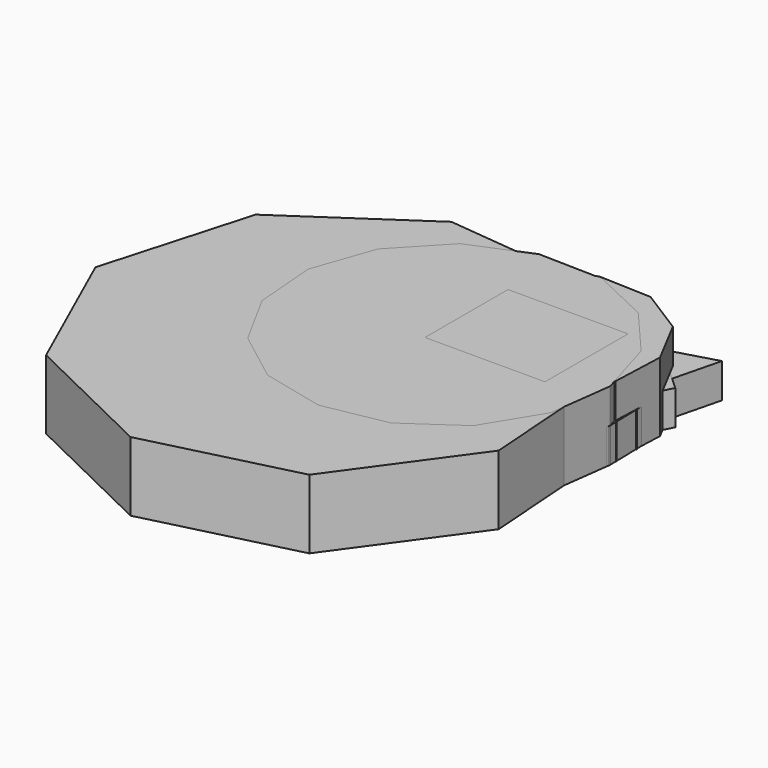
from build123d import *

# Parameters (mm, degrees)
PAD_DEPTH    = 10
PAD001_DEPTH = 10
PAD002_DEPTH = 10
PAD003_DEPTH = 5
PAD004_DEPTH = 5
PAD005_DEPTH = 5
SKETCH006_W  = 17.330512
SKETCH006_H  = 14.988543
PAD006_DEPTH = 10
PAD007_DEPTH = 5
PAD008_DEPTH = 5


with BuildPart() as body:
    # Sketch → Pad (new body)
    with BuildSketch(Plane.XY):
        Polygon((18.167238, -26.824047), (31.159077, -8.870737), (29.571237, 13.23329), (14.146687, 29.145313), (-7.897255, 31.41992), (-26.245984, 18.992798), (-32.313925, -2.321266), (-23.261822, -22.549184), (-3.325253, -32.226088), align=None)
    extrude(amount=PAD_DEPTH)


with BuildPart() as body_1:
    # Body placement: moved
    add(body.part.moved(Location((-31.159077, -31.41992, 0))))


with BuildPart() as body001:
    # Sketch001 → Pad001 (new body)
    with BuildSketch(Plane.XY):
        Polygon((-14.146512, 4.385867), (-14.444172, -3.274984), (-10.871528, -10.058305), (-4.385867, -14.146512), (3.274984, -14.444172), (10.058305, -10.871528), (14.146512, -4.385867), (14.444172, 3.274984), (10.871528, 10.058305), (4.385867, 14.146512), (-3.274984, 14.444172), (-10.058305, 10.871528), align=None)
    extrude(amount=PAD001_DEPTH)


with BuildPart() as body001_1:
    # Body001 placement: moved
    add(body001.part.moved(Location((-14.444172, -14.444172, 0))))


with BuildPart() as body002:
    # Sketch002 → Pad002 (new body)
    with BuildSketch(Plane.XY):
        Polygon((5.168737, 19.66088), (-4.125931, 19.882535), (-12.707188, 16.304545), (-19.091257, 9.545577), (-22.174274, 0.774318), (-21.423157, -8.492602), (-16.967783, -16.652849), (-9.578524, -22.29544), (-0.533051, -24.444722), (8.60459, -22.729063), (16.25442, -17.445117), (21.093714, -9.506527), (22.285712, -0.285945), (19.624308, 8.622305), (13.569683, 15.677905), align=None)
    extrude(amount=PAD002_DEPTH)


with BuildPart() as body002_1:
    # Body002 placement: moved
    add(body002.part.moved(Location((-22.285712, -19.882535, 0))))


with BuildPart() as body003:
    # Sketch003 → Pad003 (new body)
    with BuildSketch(Plane.XY):
        Polygon((7.399518, 7.664609), (-10.337505, 2.575866), (2.937987, -10.240475), align=None)
    extrude(amount=PAD003_DEPTH)


with BuildPart() as body003_1:
    # Body003 placement: moved
    add(body003.part.moved(Location((-7.399518, -7.664609, 0))))


with BuildPart() as body004:
    # Sketch004 → Pad004 (new body)
    with BuildSketch(Plane.XY):
        Polygon((0, 10.25955), (-8.885031, -5.129775), (8.885031, -5.129775), align=None)
    extrude(amount=PAD004_DEPTH)


with BuildPart() as body004_1:
    # Body004 placement: moved
    add(body004.part.moved(Location((-8.885031, -10.25955, 0))))


with BuildPart() as body005:
    # Sketch005 → Pad005 (new body)
    with BuildSketch(Plane.XY):
        Polygon((8.917991, 0), (13.337694, 8.722222), (4.077364, 17.140703), (-8.024202, 17.140703), (-17.600224, 1.776977), (-4.762044, -10.850743), (0.920433, -10.850743), align=None)
    extrude(amount=PAD005_DEPTH)


with BuildPart() as body005_1:
    # Body005 placement: moved
    add(body005.part.moved(Location((-13.337694, -17.140703, 0))))


with BuildPart() as body006:
    # Sketch006 → Pad006 (new body)
    with BuildSketch(Plane.XY):
        with Locations((-1.850273, 0.820157)):
            Rectangle(SKETCH006_W, SKETCH006_H)
    extrude(amount=PAD006_DEPTH)

    # Sketch007 → Pad007 (join)
    with BuildSketch(Plane.XY):
        Polygon((10.019646, 10.457861), (4.573891, 15.162398), (-2.314561, 17.24522), (-9.454634, 16.346186), (-15.611746, 12.620748), (-19.721276, 6.713068), (-21.072648, -0.355362), (-19.432198, -7.362347), (-15.083575, -13.096315), (-8.778695, -16.565812), (-1.60773, -17.170929), (5.189397, -14.807036), (10.437399, -9.882873), (13.22885, -3.24987), (13.081082, 3.945064), align=None)
    extrude(amount=PAD007_DEPTH)


with BuildPart() as body006_1:
    # Body006 placement: moved
    add(body006.part.moved(Location((-13.22885, -17.24522, 0))))


with BuildPart() as body007:
    # Sketch008 → Pad008 (new body)
    with BuildSketch(Plane.XY):
        Polygon((7.007695, -11.784118), (11.767051, -2.863674), (10.374145, 7.150596), (3.361021, 14.433582), (-6.593548, 16.203429), (-15.687253, 11.784118), (-20.446609, 2.863674), (-19.053703, -7.150596), (-12.040579, -14.433582), (-2.086011, -16.203429), align=None)
    extrude(amount=PAD008_DEPTH)


with BuildPart() as body007_1:
    # Body007 placement: moved
    add(body007.part.moved(Location((-11.767051, -16.203429, 0))))


solid = Compound([body_1.part, body001_1.part, body002_1.part, body003_1.part, body004_1.part, body005_1.part, body006_1.part, body007_1.part])
